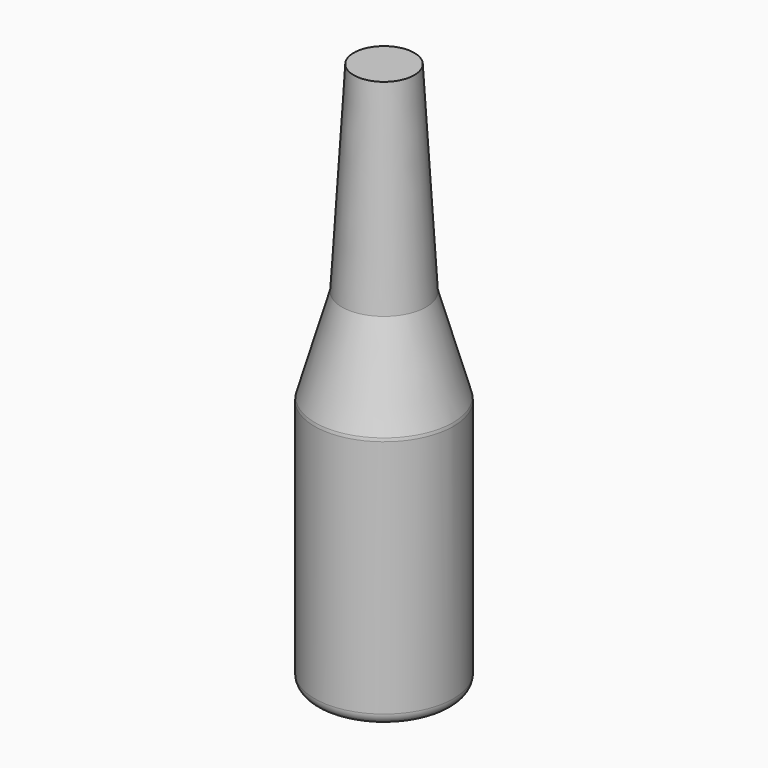
from build123d import *

# Parameters (mm, degrees)
F0_R      = 30.5
F2_DEPTH  = 111
F2_FACE_R = 30.5
F3_R      = 18.5
F5_R      = 5
F6_R      = 5
F4_FACE_R = 18.5
F8_R      = 13.3


with BuildPart() as f2:
    # F0 (on Top) → F2 (new body)
    with BuildSketch(Plane.XY):
        Circle(F0_R)
    extrude(amount=F2_DEPTH)

    # F2_face (on face) → F4 section 0
    with BuildSketch(Plane.XY.offset(111)):
        Circle(F2_FACE_R)
    # F3 (on offset) → F4 section 1
    with BuildSketch(Plane.XY.offset(152.5)):
        Circle(F3_R)
    loft()

    # F5
    f5_edges = [f2.edges().sort_by_distance(p)[0] for p in [
        (-30.5, 0, 111),
    ]]
    fillet(f5_edges, radius=F5_R)

    # F6
    f6_edges = [f2.edges().sort_by_distance(p)[0] for p in [
        (-30.5, 0, 0),
    ]]
    fillet(f6_edges, radius=F6_R)

    # F4_face (on face) → F9 section 0
    with BuildSketch(Plane.XY.offset(152.5)):
        Circle(F4_FACE_R)
    # F8 (on offset) → F9 section 1
    with BuildSketch(Plane.XY.offset(240.5)):
        Circle(F8_R)
    loft()


solid = f2.part
